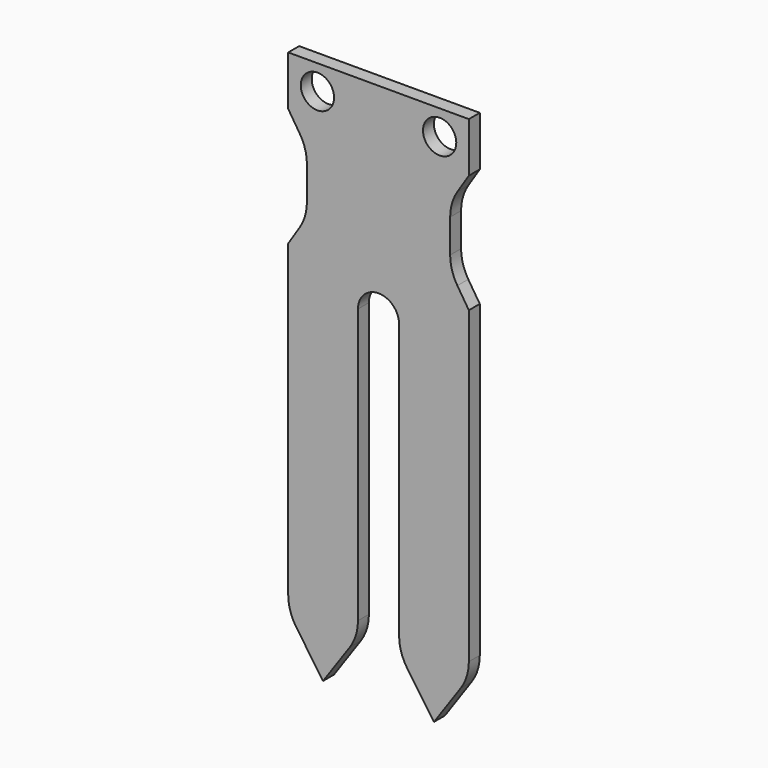
from build123d import *

# Parameters (mm, degrees)
F0_R     = 1.825
F1_DEPTH = 1.5
F2_R     = 5


with BuildPart() as f1:
    # F0 (on Front) → F1 (new body)
    with BuildSketch(Plane.XZ):
        with BuildLine():
            Line((9.91, 0), (0, 0))
            Line((0, 0), (-9.91, 0))
            Line((-9.91, 0), (-9.91, -5.46))
            Line((-9.91, -5.46), (-7.858928, -8.658922))
            Line((-7.858928, -8.658922), (-7.858928, -15.258922))
            Line((-7.858928, -15.258922), (-9.91, -18.457845))
            Line((-9.91, -18.457845), (-9.91, -53.967845))
            Line((-9.91, -53.967845), (-6.083598, -59.467722))
            Line((-6.083598, -59.467722), (-2.257197, -53.967845))
            Line((-2.257197, -53.967845), (-2.257197, -22.297845))
            ThreePointArc((-2.257197, -22.297845), (0, -20.040648), (2.257197, -22.297845))
            Line((2.257197, -22.297845), (2.257197, -53.967845))
            Line((2.257197, -53.967845), (6.083598, -59.467722))
            Line((6.083598, -59.467722), (9.91, -53.967845))
            Line((9.91, -53.967845), (9.91, -18.457845))
            Line((9.91, -18.457845), (7.858928, -15.258922))
            Line((7.858928, -15.258922), (7.858928, -8.658922))
            Line((7.858928, -8.658922), (9.91, -5.46))
            Line((9.91, -5.46), (9.91, 0))
        make_face()
        with Locations((-6.705, -2.73)):
            Circle(F0_R, mode=Mode.SUBTRACT)
        with Locations((6.705, -2.73)):
            Circle(F0_R, mode=Mode.SUBTRACT)
    extrude(amount=-F1_DEPTH)

    # F2
    f2_edges = [f1.edges().sort_by_distance(p)[0] for p in [
        (7.858928, 0.75, -15.258922),
        (-7.858928, 0.75, -15.258922),
        (-7.858928, 0.75, -8.658922),
        (7.858928, 0.75, -8.658922),
        (9.91, 0.75, -53.967845),
        (2.257197, 0.75, -53.967845),
        (-9.91, 0.75, -53.967845),
        (-2.257197, 0.75, -53.967845),
    ]]
    fillet(f2_edges, radius=F2_R)


solid = f1.part
